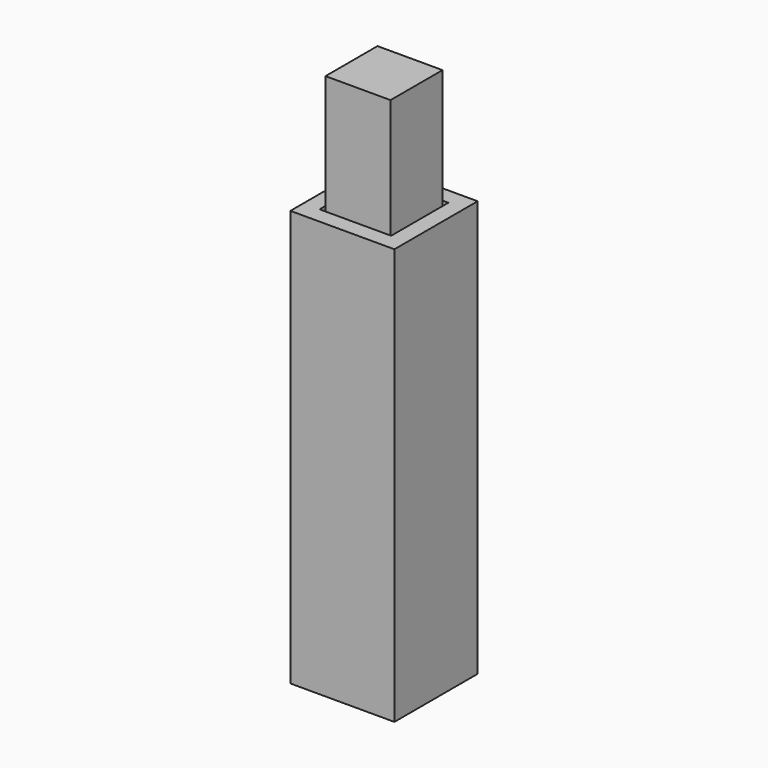
from build123d import *

# Parameters (mm, degrees)
CYLINDER005_R     = 2
CYLINDER005_DEPTH = 60
CYLINDER006_R     = 2
CYLINDER006_DEPTH = 60
CYLINDER007_R     = 2
CYLINDER007_DEPTH = 60
CYLINDER004_R     = 2
CYLINDER004_DEPTH = 60
BOX_W             = 10
BOX_H             = 10
BOX_DEPTH         = 80
CYLINDER_R        = 2
CYLINDER_DEPTH    = 60
CYLINDER002_R     = 2
CYLINDER002_DEPTH = 60
CYLINDER001_R     = 2
CYLINDER001_DEPTH = 60
CYLINDER003_R     = 2
CYLINDER003_DEPTH = 60
BOX002_W          = 11
BOX002_H          = 11
BOX002_DEPTH      = 80
BOX001_W          = 16
BOX001_H          = 16
BOX001_DEPTH      = 64


with BuildPart() as cylinder005:
    # Cylinder005 → Cylinder005 (new body)
    with BuildSketch(Plane(origin=(0, 10, 0), x_dir=(1, 0, 0), z_dir=(0, 0, 1))):
        Circle(CYLINDER005_R)
    extrude(amount=CYLINDER005_DEPTH)


with BuildPart() as cylinder006:
    # Cylinder006 → Cylinder006 (new body)
    with BuildSketch(Plane(origin=(10, 10, 0), x_dir=(1, 0, 0), z_dir=(0, 0, 1))):
        Circle(CYLINDER006_R)
    extrude(amount=CYLINDER006_DEPTH)


with BuildPart() as cylinder007:
    # Cylinder007 → Cylinder007 (new body)
    with BuildSketch(Plane(origin=(10, 0, 0), x_dir=(1, 0, 0), z_dir=(0, 0, 1))):
        Circle(CYLINDER007_R)
    extrude(amount=CYLINDER007_DEPTH)


with BuildPart() as cylinder004:
    # Cylinder004 → Cylinder004 (new body)
    with BuildSketch(Plane.XY):
        Circle(CYLINDER004_R)
    extrude(amount=CYLINDER004_DEPTH)


with BuildPart() as cut003:
    # Box → Box (new body)
    with BuildSketch(Plane.XY):
        with Locations((5, 5)):
            Rectangle(BOX_W, BOX_H)
    extrude(amount=BOX_DEPTH)

    # Cut: cut Cylinder004
    add(cylinder004.part, mode=Mode.SUBTRACT)

    # Cut001: cut Cylinder007
    add(cylinder007.part, mode=Mode.SUBTRACT)

    # Cut002: cut Cylinder006
    add(cylinder006.part, mode=Mode.SUBTRACT)

    # Cut003: cut Cylinder005
    add(cylinder005.part, mode=Mode.SUBTRACT)


with BuildPart() as cylinder:
    # Cylinder → Cylinder (new body)
    with BuildSketch(Plane.XY):
        Circle(CYLINDER_R)
    extrude(amount=CYLINDER_DEPTH)


with BuildPart() as cylinder002:
    # Cylinder002 → Cylinder002 (new body)
    with BuildSketch(Plane(origin=(10, 10, 0), x_dir=(1, 0, 0), z_dir=(0, 0, 1))):
        Circle(CYLINDER002_R)
    extrude(amount=CYLINDER002_DEPTH)


with BuildPart() as cylinder001:
    # Cylinder001 → Cylinder001 (new body)
    with BuildSketch(Plane(origin=(10, 0, 0), x_dir=(1, 0, 0), z_dir=(0, 0, 1))):
        Circle(CYLINDER001_R)
    extrude(amount=CYLINDER001_DEPTH)


with BuildPart() as cylinder003:
    # Cylinder003 → Cylinder003 (new body)
    with BuildSketch(Plane(origin=(0, 10, 0), x_dir=(1, 0, 0), z_dir=(0, 0, 1))):
        Circle(CYLINDER003_R)
    extrude(amount=CYLINDER003_DEPTH)


with BuildPart() as cube002:
    # Box002 → Box002 (new body)
    with BuildSketch(Plane(origin=(-0.5, -0.5, -5), x_dir=(1, 0, 0), z_dir=(0, 0, 1))):
        with Locations((5.5, 5.5)):
            Rectangle(BOX002_W, BOX002_H)
    extrude(amount=BOX002_DEPTH)


with BuildPart() as cut008:
    # Box001 → Box001 (new body)
    with BuildSketch(Plane(origin=(-3, -3, -2), x_dir=(1, 0, 0), z_dir=(0, 0, 1))):
        with Locations((8, 8)):
            Rectangle(BOX001_W, BOX001_H)
    extrude(amount=BOX001_DEPTH)

    # Cut004: cut Cube002
    add(cube002.part, mode=Mode.SUBTRACT)

    # Cut005: cut Cylinder003
    add(cylinder003.part, mode=Mode.SUBTRACT)

    # Cut006: cut Cylinder001
    add(cylinder001.part, mode=Mode.SUBTRACT)

    # Cut007: cut Cylinder002
    add(cylinder002.part, mode=Mode.SUBTRACT)

    # Cut008: cut Cylinder
    add(cylinder.part, mode=Mode.SUBTRACT)


solid = Compound([cut003.part, cut008.part])
